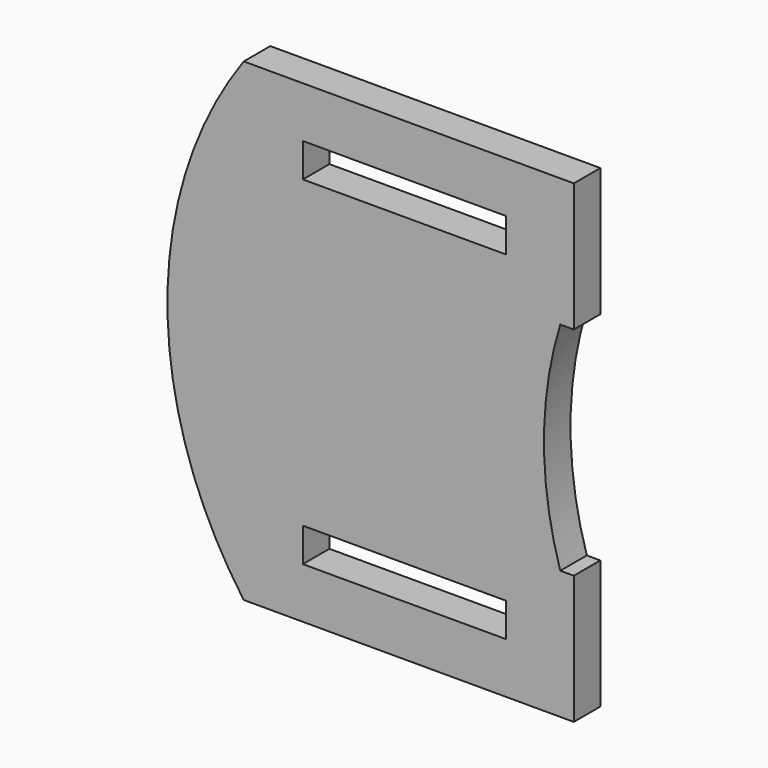
from build123d import *

# Parameters (mm, degrees)
F0_R     = 60
F1_DEPTH = 4.9
F3_DEPTH = 4.901
F4_W     = 2
F4_H     = 32
F5_DEPTH = 4.901
F6_W     = 30
F6_H     = 5
F7_DEPTH = 4.901


with BuildPart() as f1:
    # F0 (on Front) → F1 (new body)
    with BuildSketch(Plane.XZ):
        Circle(F0_R)
    extrude(amount=F1_DEPTH)

    # F2 (on face) → F3 (cut, through all)
    with BuildSketch(Plane.XZ.offset(4.9)):
        with BuildLine():
            ThreePointArc((60, 0), (18.3842554453, 57.1140889074), (-48.733971724, 35))
            Line((-48.733971724, 35), (0, 35))
            Line((0, 35), (0, -35))
            Line((0, -35), (-48.733971724, -35))
            ThreePointArc((-48.733971724, -35), (18.3842554453, -57.1140889074), (60, 0))
        make_face()
    extrude(amount=-F3_DEPTH, mode=Mode.SUBTRACT)

    # F4 (on face) → F5 (cut, through all)
    with BuildSketch(Plane.XZ.offset(4.9)):
        with BuildLine():
            Line((-2, -16), (-2, 16))
            ThreePointArc((-2, 16), (-4.4058820349, 0), (-2, -16))
        make_face()
        with Locations((-1, 0)):
            Rectangle(F4_W, F4_H)
    extrude(amount=-F5_DEPTH, mode=Mode.SUBTRACT)

    # F6 (on face) → F7 (cut, through all)
    with BuildSketch(Plane.XZ.offset(4.9)):
        with Locations((-25, 25)):
            Rectangle(F6_W, F6_H)
        with Locations((-25, 25)):
            Rectangle(F6_W, F6_H)
        with Locations((-25, -25)):
            Rectangle(F6_W, F6_H)
        with Locations((-25, -25)):
            Rectangle(F6_W, F6_H)
    extrude(amount=-F7_DEPTH, mode=Mode.SUBTRACT)


solid = f1.part
